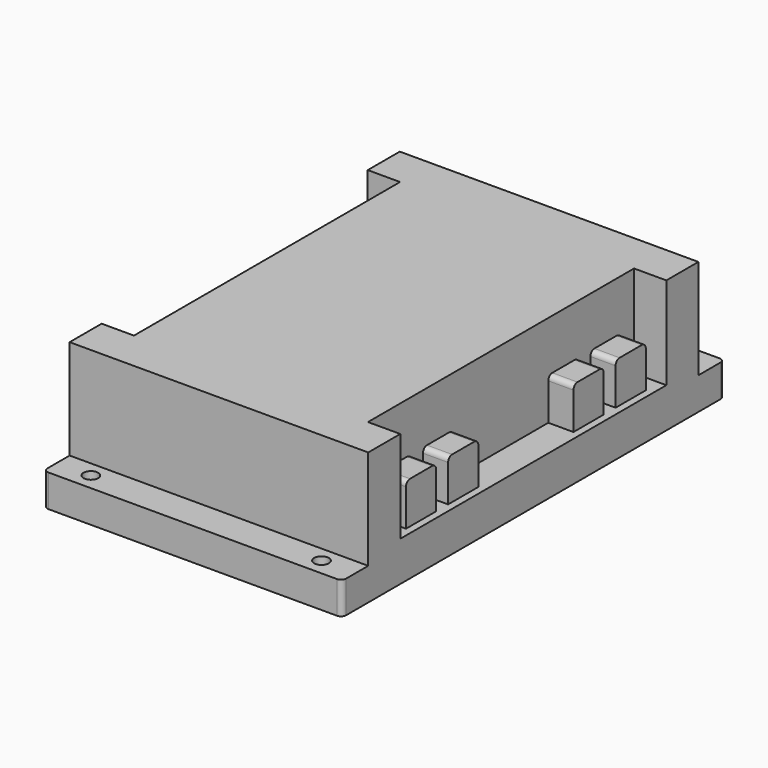
from build123d import *

# Parameters (mm, degrees)
F0_W      = 90.424
F0_H      = 144.78
F1_DEPTH  = 40.005
F2_W      = 155.254013
F2_H      = 39.959349
F2_W_2    = 138.807609
F2_H_2    = 17.542356
F3_DEPTH  = 30.226
F4_R      = 1.524
F5_R      = 2.2225
F6_DEPTH  = 25.4
F7_W      = 25.824266
F7_H      = 100.72116
F8_DEPTH  = 27.94
F9_W      = 7.62
F9_H      = 11.43
F10_DEPTH = 12.7
F11_R     = 1.524
F12_W     = 6.096
F12_H     = 7.62
F12_H_2   = 10.16
F13_DEPTH = 10.16


with BuildPart() as f1:
    # F0 (on Top) → F1 (new body)
    with BuildSketch(Plane.XY):
        Rectangle(F0_W, F0_H)
    extrude(amount=F1_DEPTH)

    # F2 (on face) → F3 (cut)
    with BuildSketch(Plane.XY.offset(40.005)):
        with Locations((-0.908692, -82.463674)):
            Rectangle(F2_W, F2_H)
        with Locations((-0.57976, 71.255178)):
            Rectangle(F2_W_2, F2_H_2)
    extrude(amount=-F3_DEPTH, mode=Mode.SUBTRACT)

    # F4
    f4_edges = [f1.edges().sort_by_distance(p)[0] for p in [
        (45.212, -72.39, 4.8895),
        (-45.212, -72.39, 4.8895),
        (45.212, 72.39, 4.8895),
        (-45.212, 72.39, 4.8895),
    ]]
    fillet(f4_edges, radius=F4_R)

    # F5 (on face) → F6 (cut)
    with BuildSketch(Plane(origin=(0, 0, 0), x_dir=(1, 0, 0), z_dir=(0, 0, -1))):
        with Locations((-34.925, 67.31)):
            Circle(F5_R)
        with Locations((34.925, 67.31)):
            Circle(F5_R)
        with Locations((34.925, -67.31)):
            Circle(F5_R)
        with Locations((-34.925, -67.31)):
            Circle(F5_R)
    extrude(amount=-F6_DEPTH, mode=Mode.SUBTRACT)

    # F7 (on face) → F8 (cut)
    with BuildSketch(Plane.XY.offset(40.005)):
        with Locations((-48.345133, 0)):
            Rectangle(F7_W, F7_H)
        with Locations((48.345133, 0)):
            Rectangle(F7_W, F7_H)
    extrude(amount=-F8_DEPTH, mode=Mode.SUBTRACT)

    # F9 (on face) → F10 (join)
    with BuildSketch(Plane.XY.offset(12.065)):
        with Locations((39.243, 39.56558)):
            Rectangle(F9_W, F9_H)
        with Locations((39.243, 23.61438)):
            Rectangle(F9_W, F9_H)
        with Locations((39.243, -23.83282)):
            Rectangle(F9_W, F9_H)
        with Locations((39.243, -39.78402)):
            Rectangle(F9_W, F9_H)
    extrude(amount=F10_DEPTH)

    # F11
    f11_edges = [f1.edges().sort_by_distance(p)[0] for p in [
        (39.243, -45.49902, 24.765),
        (39.243, -34.06902, 24.765),
        (39.243, -29.54782, 24.765),
        (39.243, -18.11782, 24.765),
        (39.243, 17.89938, 24.765),
        (39.243, 33.85058, 24.765),
        (39.243, 29.32938, 24.765),
        (39.243, 45.28058, 24.765),
    ]]
    fillet(f11_edges, radius=F11_R)

    # F12 (on face) → F13 (join)
    with BuildSketch(Plane.XY.offset(12.065)):
        with Locations((-39.243, -34.35858)):
            Rectangle(F12_W, F12_H)
        with Locations((-39.243, -9.89838)):
            Rectangle(F12_W, F12_H_2)
    extrude(amount=F13_DEPTH)


solid = f1.part
